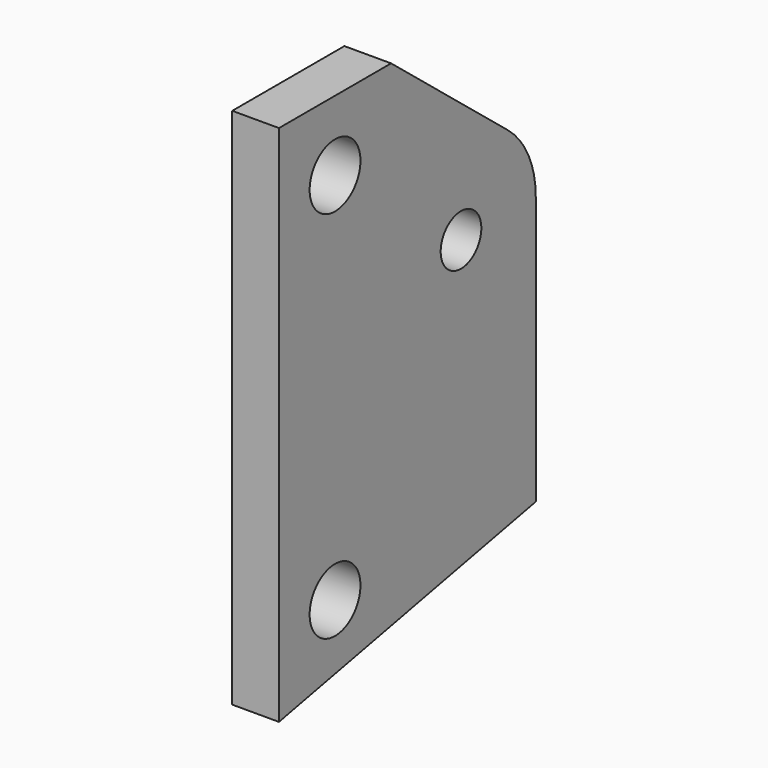
from build123d import *

# Parameters (mm, degrees)
F1_DEPTH = 3.175
F2_D     = 3.4544
F2_DEPTH = 21.43125
F2_TIP   = 1.0378064612
F3_D     = 4.318
F3_DEPTH = 15.875
F3_TIP   = 1.2972580765


with BuildPart() as f1:
    # F0 (on Right) → F1 (new body)
    with BuildSketch(Plane.YZ):
        with BuildLine():
            Line((16.1557392643, -17.4625), (12.7, -17.4625))
            Line((12.7, -17.4625), (12.7, -52.986030559))
            Line((12.7, -52.986030559), (34.5102887852, -48.6771610688))
            Line((34.5102887852, -48.6771610688), (34.5102887852, -30.4380403067))
            ThreePointArc((34.5102887852, -30.4380403067), (33.8915652541, -27.7040011635), (32.1559675137, -25.5027539424))
            Line((32.1559675137, -25.5027539424), (22.225, -17.4625))
            Line((22.225, -17.4625), (16.1557392643, -17.4625))
        make_face()
    extrude(amount=F1_DEPTH)

    # F2
    with Locations(Plane(origin=(0, 0, 0), x_dir=(0, 1, 0), z_dir=(-1, 0, 0))):
        with Locations((28.1602887852, 30.4380403067)):
            Hole(F2_D / 2, depth=F2_DEPTH)
            with Locations((0, 0, -(F2_DEPTH + F2_TIP / 2))):  # 118° drill point
                Cone(0, F2_D / 2, F2_TIP, mode=Mode.SUBTRACT)

    # F3
    with Locations(Plane(origin=(0, 0, 0), x_dir=(0, 1, 0), z_dir=(-1, 0, 0))):
        with Locations((17.4625, 22.225), (17.4625, 47.625)):
            Hole(F3_D / 2, depth=F3_DEPTH)
            with Locations((0, 0, -(F3_DEPTH + F3_TIP / 2))):  # 118° drill point
                Cone(0, F3_D / 2, F3_TIP, mode=Mode.SUBTRACT)


solid = f1.part
